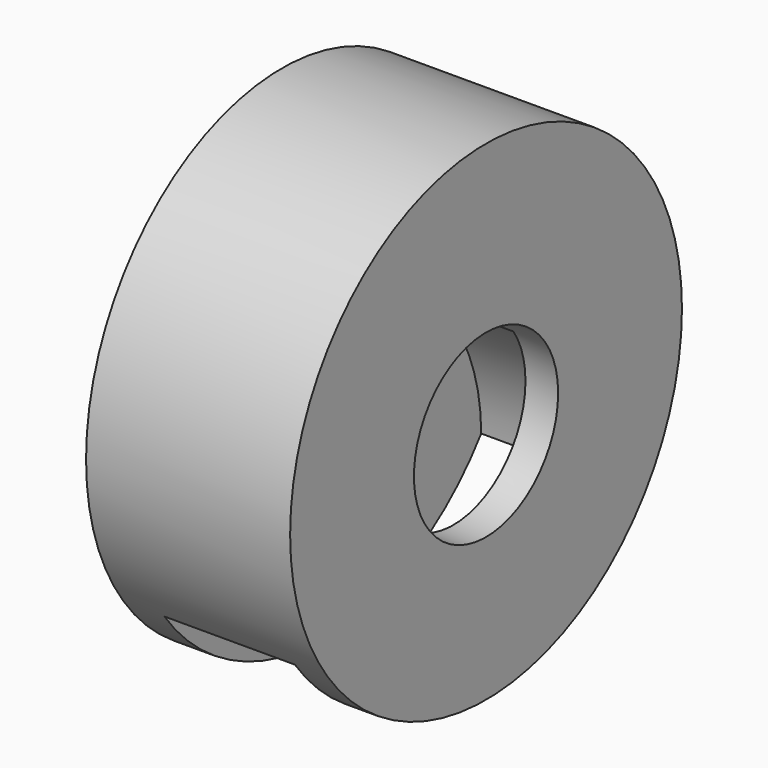
from build123d import *

# Parameters (mm, degrees)
SKETCH005_R     = 15
PAD_DEPTH       = 6.25
SKETCH006_R     = 12.130888
POCKET002_DEPTH = 4
SKETCH008_R     = 5.519597
POCKET003_DEPTH = 13


with BuildPart() as part:
    # Sketch005 → Pad (new body, symmetric)
    with BuildSketch(Plane.YZ):
        with Locations((0, 44.280815)):
            Circle(SKETCH005_R)
    extrude(amount=PAD_DEPTH, both=True)

    # Sketch006 (on Face3 of Pad) → Pocket002 (cut, symmetric)
    with BuildSketch(Plane.YZ.offset(0.25)):
        with Locations((0, 35.397984)):
            Circle(SKETCH006_R)
    extrude(amount=POCKET002_DEPTH, both=True, mode=Mode.SUBTRACT)

    # Sketch008 (on Face3 of Pocket002) → Pocket003 (cut)
    with BuildSketch(Plane.YZ.offset(6.25)):
        with Locations((0, 43.576557)):
            Circle(SKETCH008_R)
    extrude(amount=-POCKET003_DEPTH, mode=Mode.SUBTRACT)


solid = part.part
